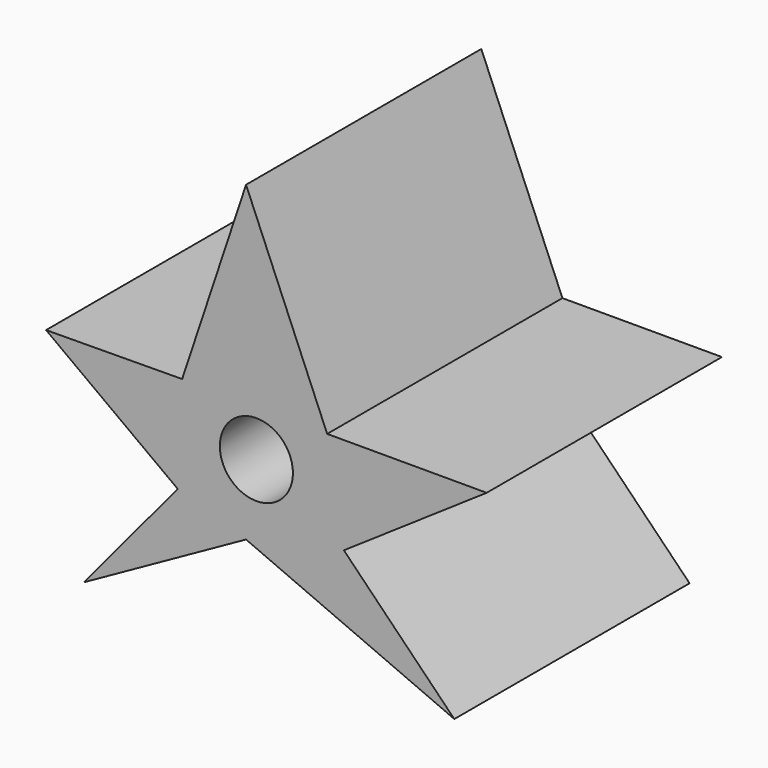
from build123d import *

# Parameters (mm, degrees)
F1_DEPTH = 43.688
F2_R     = 10.859557
F3_DEPTH = 87.377


with BuildPart() as f1:
    # F0 (on Front) → F1 (new body, symmetric)
    with BuildSketch(Plane.XZ):
        Polygon((0, 77.135481), (-18.982824, 20.129664), (-59.417184, 19.798236), (-20.308541, -9.036103), (-48.148591, -42.51045), (0, -15.664687), (61.885897, -42.51045), (29.074408, -9.036103), (71.497343, 19.798236), (24.102971, 19.798236), align=None)
    extrude(amount=F1_DEPTH, both=True)

    # F2 (on face) → F3 (cut, through all)
    with BuildSketch(Plane.XZ.offset(43.688)):
        with Locations((3.072421, 6.236229)):
            Circle(F2_R)
    extrude(amount=-F3_DEPTH, mode=Mode.SUBTRACT)


solid = f1.part
